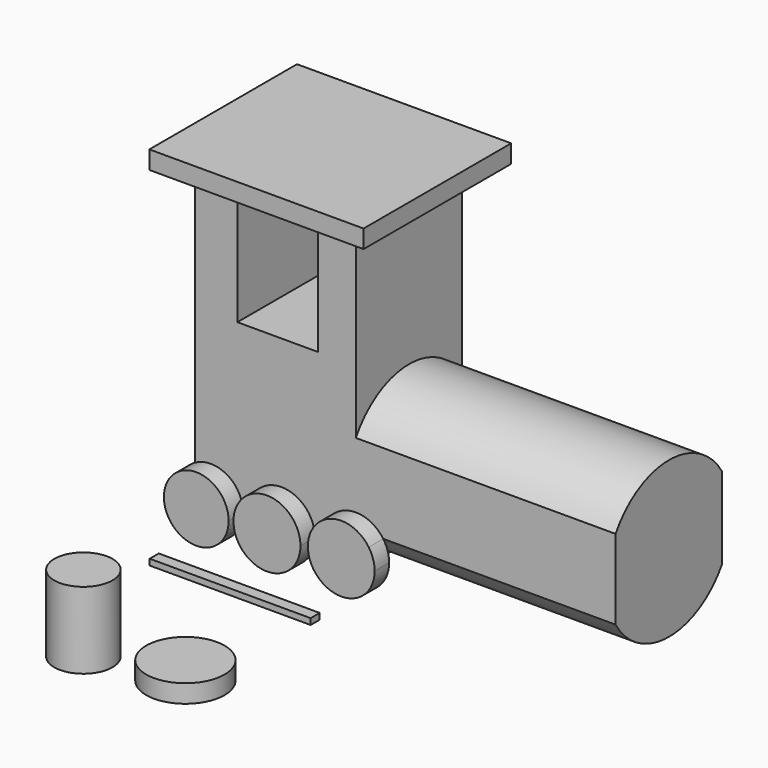
from build123d import *

# Parameters (mm, degrees)
F0_W      = 5.3462907672
F0_H      = 14.3796782941
F0_W_2    = 4.7932267189
F1_DEPTH  = 16.764
F3_DEPTH  = 32.766
F5_DEPTH  = 2.286
F6_W      = 27.0146168768
F6_H      = 23.2701618224
F6_W_2    = 20.2790349722
F6_H_2    = 16.764
F7_DEPTH  = 2.286
F8_R      = 3.6739968983
F9_DEPTH  = 9.652
F10_R     = 4.9436336388
F11_DEPTH = 2.286
F12_W     = 20.3028172255
F12_H     = 1.4335289598
F13_DEPTH = 0.762


with BuildPart() as f1:
    # F0 (on Front) → F1 (new body)
    with BuildSketch(Plane.XZ):
        Polygon((-50.5132265389, 26.7314519733), (-55.8595173061, 26.7314519733), (-55.8595173061, 3.8714515977), (-35.5804823339, 3.8714515977), (-35.5804823339, 26.7314519733), (-40.3737090528, 26.7314519733), align=None)
        with Locations((-53.1863719225, 33.9212911204)):
            Rectangle(F0_W, F0_H)
        with Locations((-37.9770956933, 33.9212911204)):
            Rectangle(F0_W_2, F0_H)
        Polygon((-35.5804823339, 44.6138679981), (-55.8595173061, 44.6138679981), (-55.8595173061, 41.1111302674), (-50.5132265389, 41.1111302674), (-40.3737090528, 41.1111302674), (-35.5804823339, 41.1111302674), align=None)
    extrude(amount=F1_DEPTH)

    # F2 (on face) → F3 (join)
    with BuildSketch(Plane.YZ.offset(-35.5804823339)):
        with BuildLine():
            Line((0, 8.5152019426), (0, 18.8903617993))
            ThreePointArc((0, 18.8903617993), (-8.4237840592, 23.5212434846), (-16.764, 18.74149442))
            Line((-16.764, 18.74149442), (-16.764, 8.6640693219))
            ThreePointArc((-16.764, 8.6640693219), (-8.4237840592, 3.8843202573), (0, 8.5152019426))
        make_face()
    extrude(amount=F3_DEPTH)

    # F6 (on face) → F7 (join)
    with BuildSketch(Plane.XY.offset(44.6138679981)):
        with Locations((-45.3363340348, -8.58834479)):
            Rectangle(F6_W, F6_H)
        with Locations((-45.71999982, -8.382)):
            Rectangle(F6_W_2, F6_H_2, mode=Mode.SUBTRACT)
    extrude(amount=-F7_DEPTH)


with BuildPart() as f5:
    # F4 (on face) → F5 (new body)
    with BuildSketch(Plane.XZ.offset(16.764)):
        with BuildLine():
            Line((-55.8595173061, 3.8714515977), (-55.8595173061, 9.4039771229))
            ThreePointArc((-55.8595173061, 9.4039771229), (-56.7473613934, 2.9371276158), (-50.287063539, 3.8714515977))
            Line((-50.287063539, 3.8714515977), (-55.8595173061, 3.8714515977))
        make_face()
        with BuildLine():
            ThreePointArc((-50.287063539, 3.8714515977), (-49.9114191575, 4.8221378969), (-49.7835356487, 5.83631685))
            ThreePointArc((-49.7835356487, 5.83631685), (-51.8003381954, 9.3593039676), (-55.8595173061, 9.4039771229))
            Line((-55.8595173061, 9.4039771229), (-55.8595173061, 3.8714515977))
            Line((-55.8595173061, 3.8714515977), (-50.287063539, 3.8714515977))
        make_face()
    extrude(amount=F5_DEPTH)


with BuildPart() as f5b:
    # F4 (on face) → F5, piece 2 (new body)
    with BuildSketch(Plane.XZ.offset(16.764)):
        with BuildLine():
            Line((-41.3130086328, 3.8714515977), (-48.5944363807, 3.8714515977))
            ThreePointArc((-48.5944363807, 3.8714515977), (-44.9537225068, 1.7893560978), (-41.3130086328, 3.8714515977))
        make_face()
        with BuildLine():
            ThreePointArc((-40.7296321171, 6.0134464875), (-46.0637304197, 10.0890841128), (-48.5944363807, 3.8714515977))
            Line((-48.5944363807, 3.8714515977), (-41.3130086328, 3.8714515977))
            ThreePointArc((-41.3130086328, 3.8714515977), (-40.8780848814, 4.9034385746), (-40.7296321171, 6.0134464875))
        make_face()
    extrude(amount=F5_DEPTH)


with BuildPart() as f5c:
    # F4 (on face) → F5, piece 3 (new body)
    with BuildSketch(Plane.XZ.offset(16.764)):
        with BuildLine():
            Line((-35.5804823339, 3.8714515977), (-39.0415708426, 3.8714515977))
            ThreePointArc((-39.0415708426, 3.8714515977), (-34.3252244248, 2.2495820903), (-31.3707994684, 6.2677604598))
            ThreePointArc((-31.3707994684, 6.2677604598), (-31.5623039644, 7.5230183689), (-32.1193938252, 8.6640693219))
            Line((-32.1193938252, 8.6640693219), (-35.5804823339, 8.6640693219))
            Line((-35.5804823339, 8.6640693219), (-35.5804823339, 3.8714515977))
        make_face()
        with BuildLine():
            ThreePointArc((-32.1193938252, 8.6640693219), (-37.976791196, 9.7288489685), (-39.0415708426, 3.8714515977))
            Line((-39.0415708426, 3.8714515977), (-35.5804823339, 3.8714515977))
            Line((-35.5804823339, 3.8714515977), (-35.5804823339, 8.6640693219))
            Line((-35.5804823339, 8.6640693219), (-32.1193938252, 8.6640693219))
        make_face()
    extrude(amount=F5_DEPTH)


with BuildPart() as f9:
    # F8 (on Top) → F9 (new body)
    with BuildSketch(Plane.XY):
        with Locations((-49.8821027577, -41.8271832168)):
            Circle(F8_R)
    extrude(amount=F9_DEPTH)


with BuildPart() as f11:
    # F10 (on Top) → F11 (new body)
    with BuildSketch(Plane.XY):
        with Locations((-38.8298146427, -39.5628958941)):
            Circle(F10_R)
    extrude(amount=F11_DEPTH)


with BuildPart() as f13:
    # F12 (on Top) → F13 (new body)
    with BuildSketch(Plane.XY):
        with Locations((-46.7597767711, -21.8764077872)):
            Rectangle(F12_W, F12_H)
    extrude(amount=F13_DEPTH)


solid = Compound([f1.part, f5.part, f5b.part, f5c.part, f9.part, f11.part, f13.part])
